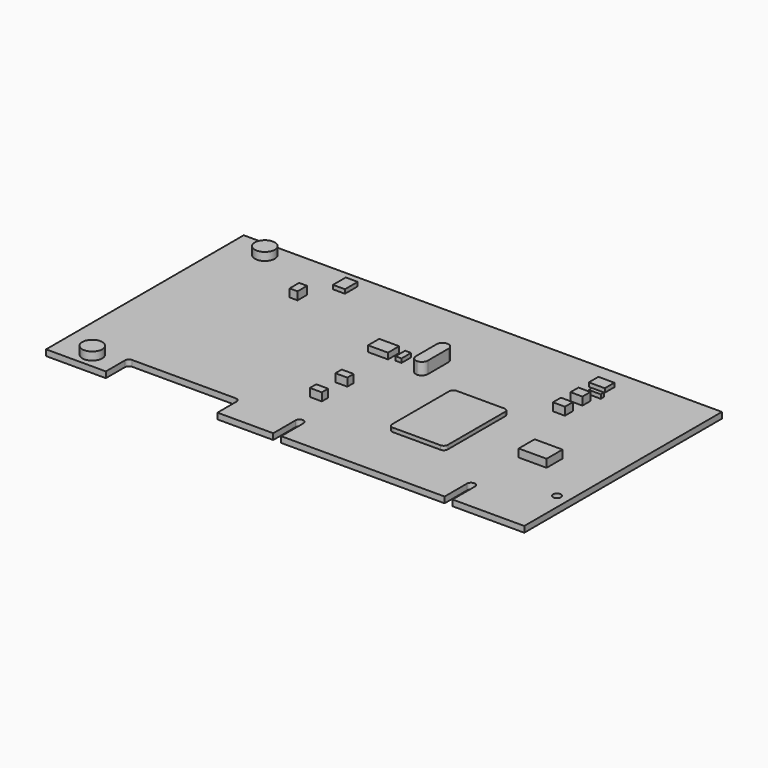
from build123d import *

# Parameters (mm, degrees)
F0_W      = 120
F0_H      = 62
F1_DEPTH  = 1.5
F3_DEPTH  = 1.501
F5_DEPTH  = 1.501
F7_DEPTH  = 1.501
F8_R      = 1
F9_DEPTH  = 1.501
F10_W     = 7
F10_H     = 5
F11_DEPTH = 2
F13_DEPTH = 1
F14_W     = 3
F14_H     = 2.5
F15_DEPTH = 2
F16_W     = 3
F16_H     = 2.5
F17_DEPTH = 2
F18_W     = 3
F18_H     = 1
F19_DEPTH = 1
F20_W     = 4
F20_H     = 3
F21_DEPTH = 1
F23_DEPTH = 3
F24_W     = 1.5
F24_H     = 3
F25_DEPTH = 1
F26_W     = 5
F26_H     = 3.5
F27_DEPTH = 1.5
F28_W     = 3
F28_H     = 2
F29_DEPTH = 2
F30_W     = 3
F30_H     = 2
F31_DEPTH = 2
F32_R     = 2.5
F33_DEPTH = 2
F34_R     = 2.5
F35_DEPTH = 2
F36_W     = 3
F36_H     = 4
F37_DEPTH = 1
F38_W     = 2
F38_H     = 3
F39_DEPTH = 2


with BuildPart() as f1:
    # F0 (on Top) → F1 (new body)
    with BuildSketch(Plane.XY):
        with Locations((-17.615131, 6.410271)):
            Rectangle(F0_W, F0_H)
    extrude(amount=F1_DEPTH)

    # F2 (on face) → F3 (cut, through all)
    with BuildSketch(Plane.XY.offset(1.5)):
        with BuildLine():
            Line((-62.615131, -18.589729), (-62.615131, -24.589729))
            Line((-62.615131, -24.589729), (-34.615131, -24.589729))
            Line((-34.615131, -24.589729), (-34.615131, -18.589729))
            ThreePointArc((-34.615131, -18.589729), (-34.908024, -17.882622), (-35.615131, -17.589729))
            Line((-35.615131, -17.589729), (-61.615131, -17.589729))
            ThreePointArc((-61.615131, -17.589729), (-62.322238, -17.882622), (-62.615131, -18.589729))
        make_face()
    extrude(amount=-F3_DEPTH, mode=Mode.SUBTRACT)

    # F4 (on face) → F5 (cut, through all)
    with BuildSketch(Plane.XY.offset(1.5)):
        with BuildLine():
            Line((-20.615131, -17.589729), (-20.615131, -24.589729))
            Line((-20.615131, -24.589729), (-18.615131, -24.589729))
            Line((-18.615131, -24.589729), (-18.615131, -17.589729))
            ThreePointArc((-18.615131, -17.589729), (-19.615131, -16.589729), (-20.615131, -17.589729))
        make_face()
    extrude(amount=-F5_DEPTH, mode=Mode.SUBTRACT)

    # F6 (on face) → F7 (cut, through all)
    with BuildSketch(Plane.XY.offset(1.5)):
        with BuildLine():
            Line((22.384869, -17.543457), (22.384869, -24.589729))
            Line((22.384869, -24.589729), (24.384869, -24.589729))
            Line((24.384869, -24.589729), (24.384869, -17.543457))
            ThreePointArc((24.384869, -17.543457), (23.384869, -16.543457), (22.384869, -17.543457))
        make_face()
    extrude(amount=-F7_DEPTH, mode=Mode.SUBTRACT)

    # F8 (on face) → F9 (cut, through all)
    with BuildSketch(Plane.XY.offset(1.5)):
        with Locations((39.384869, -10.589729)):
            Circle(F8_R)
    extrude(amount=-F9_DEPTH, mode=Mode.SUBTRACT)

    # F10 (on face) → F11 (join)
    with BuildSketch(Plane.XY.offset(1.5)):
        with Locations((26.884869, -0.089729)):
            Rectangle(F10_W, F10_H)
    extrude(amount=F11_DEPTH)

    # F12 (on face) → F13 (join)
    with BuildSketch(Plane.XY.offset(1.5)):
        with BuildLine():
            Line((9.384869, 10.410271), (-2.615131, 10.410271))
            ThreePointArc((-2.615131, 10.410271), (-3.322238, 10.117378), (-3.615131, 9.410271))
            Line((-3.615131, 9.410271), (-3.615131, -8.589729))
            ThreePointArc((-3.615131, -8.589729), (-3.322238, -9.296836), (-2.615131, -9.589729))
            Line((-2.615131, -9.589729), (9.384869, -9.589729))
            ThreePointArc((9.384869, -9.589729), (10.091976, -9.296836), (10.384869, -8.589729))
            Line((10.384869, -8.589729), (10.384869, 9.410271))
            ThreePointArc((10.384869, 9.410271), (10.091976, 10.117378), (9.384869, 10.410271))
        make_face()
    extrude(amount=F13_DEPTH)

    # F14 (on face) → F15 (join)
    with BuildSketch(Plane.XY.offset(1.5)):
        with Locations((17.884869, 18.160271)):
            Rectangle(F14_W, F14_H)
    extrude(amount=F15_DEPTH)

    # F16 (on face) → F17 (join)
    with BuildSketch(Plane.XY.offset(1.5)):
        with Locations((17.884869, 23.660271)):
            Rectangle(F16_W, F16_H)
    extrude(amount=F17_DEPTH)

    # F18 (on face) → F19 (join)
    with BuildSketch(Plane.XY.offset(1.5)):
        with Locations((18.884869, 27.410271)):
            Rectangle(F18_W, F18_H)
    extrude(amount=F19_DEPTH)

    # F20 (on face) → F21 (join)
    with BuildSketch(Plane.XY.offset(1.5)):
        with Locations((17.384869, 30.910271)):
            Rectangle(F20_W, F20_H)
    extrude(amount=F21_DEPTH)

    # F22 (on face) → F23 (join)
    with BuildSketch(Plane.XY.offset(1.5)):
        with BuildLine():
            ThreePointArc((-14.115131, 21.910271), (-15.175791, 21.470931), (-15.615131, 20.410271))
            Line((-15.615131, 20.410271), (-15.615131, 13.910271))
            ThreePointArc((-15.615131, 13.910271), (-15.175791, 12.849611), (-14.115131, 12.410271))
            ThreePointArc((-14.115131, 12.410271), (-13.054471, 12.849611), (-12.615131, 13.910271))
            Line((-12.615131, 13.910271), (-12.615131, 20.410271))
            ThreePointArc((-12.615131, 20.410271), (-13.054471, 21.470931), (-14.115131, 21.910271))
        make_face()
    extrude(amount=F23_DEPTH)

    # F24 (on face) → F25 (join)
    with BuildSketch(Plane.XY.offset(1.5)):
        with Locations((-20.365131, 15.910271)):
            Rectangle(F24_W, F24_H)
    extrude(amount=F25_DEPTH)

    # F26 (on face) → F27 (join)
    with BuildSketch(Plane.XY.offset(1.5)):
        with Locations((-25.115131, 15.660271)):
            Rectangle(F26_W, F26_H)
    extrude(amount=F27_DEPTH)

    # F28 (on face) → F29 (join)
    with BuildSketch(Plane.XY.offset(1.5)):
        with Locations((-23.115131, 0.910271)):
            Rectangle(F28_W, F28_H)
    extrude(amount=F29_DEPTH)

    # F30 (on face) → F31 (join)
    with BuildSketch(Plane.XY.offset(1.5)):
        with Locations((-23.115131, -7.089729)):
            Rectangle(F30_W, F30_H)
    extrude(amount=F31_DEPTH)

    # F32 (on face) → F33 (join)
    with BuildSketch(Plane.XY.offset(1.5)):
        with Locations((-69.115131, 33.410271)):
            Circle(F32_R)
    extrude(amount=F33_DEPTH)

    # F34 (on face) → F35 (join)
    with BuildSketch(Plane.XY.offset(1.5)):
        with Locations((-69.115131, -20.716745)):
            Circle(F34_R)
    extrude(amount=F35_DEPTH)

    # F36 (on face) → F37 (join)
    with BuildSketch(Plane.XY.offset(1.5)):
        with Locations((-48.115131, 32.410271)):
            Rectangle(F36_W, F36_H)
    extrude(amount=F37_DEPTH)

    # F38 (on face) → F39 (join)
    with BuildSketch(Plane.XY.offset(1.5)):
        with Locations((-53.115131, 23.910271)):
            Rectangle(F38_W, F38_H)
    extrude(amount=F39_DEPTH)


solid = f1.part
